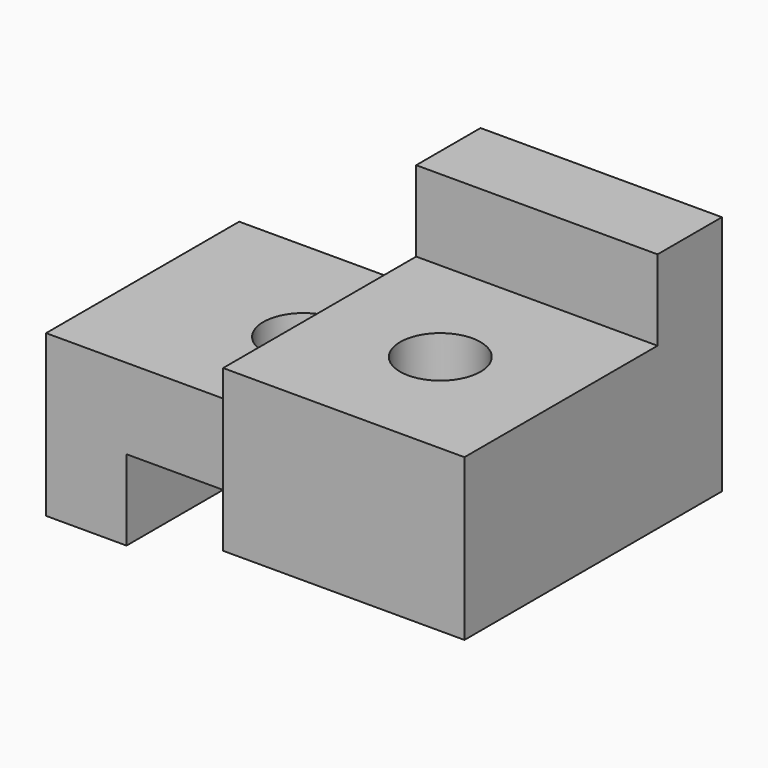
from build123d import *

# Parameters (mm, degrees)
F0_W     = 38.1
F0_H     = 25.4
F1_DEPTH = 25.4
F2_W     = 19.05
F2_H     = 12.7
F2_W_2   = 31.75
F2_H_2   = 6.35
F3_DEPTH = 25.401
F4_W     = 19.05
F4_H     = 6.35
F4_R     = 3.175
F5_DEPTH = 12.701
F6_W     = 19.05
F6_H     = 19.05
F7_DEPTH = 6.35
F8_R     = 3.175
F9_DEPTH = 19.051


with BuildPart() as f1:
    # F0 (on Front) → F1 (new body)
    with BuildSketch(Plane.XZ):
        with Locations((19.05, 12.7)):
            Rectangle(F0_W, F0_H)
    extrude(amount=F1_DEPTH)

    # F2 (on face) → F3 (cut, through all)
    with BuildSketch(Plane.XZ.offset(25.4)):
        with Locations((9.525, 19.05)):
            Rectangle(F2_W, F2_H)
        with Locations((22.225, 3.175)):
            Rectangle(F2_W_2, F2_H_2)
    extrude(amount=-F3_DEPTH, mode=Mode.SUBTRACT)

    # F4 (on face) → F5 (cut, through all)
    with BuildSketch(Plane.XY.offset(12.7)):
        with Locations((9.525, -22.225)):
            Rectangle(F4_W, F4_H)
        with Locations((12.7, -9.525)):
            Circle(F4_R)
    extrude(amount=-F5_DEPTH, mode=Mode.SUBTRACT)

    # F6 (on face) → F7 (cut)
    with BuildSketch(Plane.XY.offset(25.4)):
        with Locations((28.575, -15.875)):
            Rectangle(F6_W, F6_H)
    extrude(amount=-F7_DEPTH, mode=Mode.SUBTRACT)

    # F8 (on face) → F9 (cut, through all)
    with BuildSketch(Plane.XY.offset(19.05)):
        with Locations((28.575, -15.875)):
            Circle(F8_R)
    extrude(amount=-F9_DEPTH, mode=Mode.SUBTRACT)


solid = f1.part
